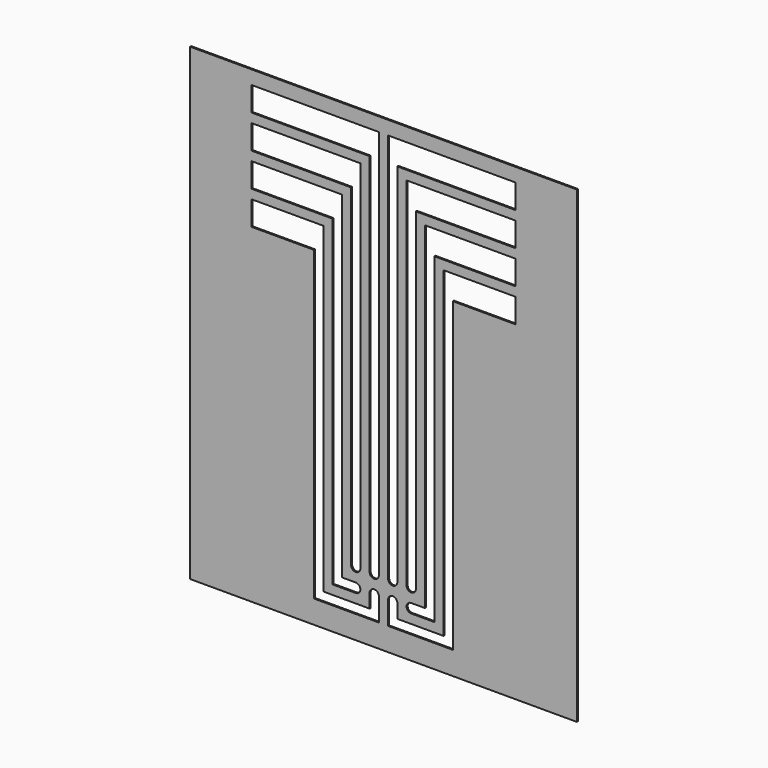
from build123d import *

# Parameters (mm, degrees)
F0_W     = 14.647059
F0_H     = 35.500497
F1_DEPTH = 0.1
F2_DEPTH = 0.1


with BuildPart() as f1:
    # F0 (on Front) → F1 (new body)
    with BuildSketch(Plane.XZ):
        with Locations((7.323529, 17.750248)):
            Rectangle(F0_W, F0_H)
        with BuildLine():
            ThreePointArc((0.35, 3.5), (0.7, 3.85), (1.05, 3.5))
            Line((1.05, 3.5), (1.05, 2.45))
            Line((1.05, 2.45), (4.55, 2.45))
            Line((4.55, 2.45), (4.55, 25))
            Line((4.55, 25), (4.55, 26.84))
            Line((4.55, 26.84), (10, 26.84))
            Line((10, 26.84), (10, 25))
            Line((10, 25), (5.25, 25))
            Line((5.25, 25), (5.25, 2.45))
            Line((5.25, 2.45), (5.25, 1.75))
            Line((5.25, 1.75), (0.35, 1.75))
            Line((0.35, 1.75), (0.35, 2.45))
            Line((0.35, 2.45), (0.35, 3.5))
        make_face(mode=Mode.SUBTRACT)
        with BuildLine():
            ThreePointArc((2.1, 3.15), (1.75, 3.5), (2.1, 3.85))
            Line((2.1, 3.85), (3.15, 3.85))
            Line((3.15, 3.85), (3.15, 27.54))
            Line((3.15, 27.54), (3.15, 29.38))
            Line((3.15, 29.38), (10, 29.38))
            Line((10, 29.38), (10, 27.54))
            Line((10, 27.54), (3.85, 27.54))
            Line((3.85, 27.54), (3.85, 3.85))
            Line((3.85, 3.85), (3.85, 3.15))
            Line((3.85, 3.15), (2.1, 3.15))
        make_face(mode=Mode.SUBTRACT)
        with BuildLine():
            ThreePointArc((1.05, 4.9), (0.7, 4.55), (0.35, 4.9))
            Line((0.35, 4.9), (0.35, 32.62))
            Line((0.35, 32.62), (0.35, 34.46))
            Line((0.35, 34.46), (10, 34.46))
            Line((10, 34.46), (10, 32.62))
            Line((10, 32.62), (1.05, 32.62))
            Line((1.05, 32.62), (1.05, 4.9))
        make_face(mode=Mode.SUBTRACT)
        with BuildLine():
            ThreePointArc((2.45, 4.9), (2.1, 4.55), (1.75, 4.9))
            Line((1.75, 4.9), (1.75, 30.08))
            Line((1.75, 30.08), (1.75, 31.92))
            Line((1.75, 31.92), (10, 31.92))
            Line((10, 31.92), (10, 30.08))
            Line((10, 30.08), (2.45, 30.08))
            Line((2.45, 30.08), (2.45, 4.9))
        make_face(mode=Mode.SUBTRACT)
        with Locations((-7.323529, 17.750248)):
            Rectangle(F0_W, F0_H)
        with BuildLine():
            Line((-1.05, 2.45), (-1.05, 3.5))
            ThreePointArc((-1.05, 3.5), (-0.7, 3.85), (-0.35, 3.5))
            Line((-0.35, 3.5), (-0.35, 2.45))
            Line((-0.35, 2.45), (-0.35, 1.75))
            Line((-0.35, 1.75), (-5.25, 1.75))
            Line((-5.25, 1.75), (-5.25, 2.45))
            Line((-5.25, 2.45), (-5.25, 25))
            Line((-5.25, 25), (-10, 25))
            Line((-10, 25), (-10, 26.84))
            Line((-10, 26.84), (-4.55, 26.84))
            Line((-4.55, 26.84), (-4.55, 25))
            Line((-4.55, 25), (-4.55, 2.45))
            Line((-4.55, 2.45), (-1.05, 2.45))
        make_face(mode=Mode.SUBTRACT)
        with BuildLine():
            Line((-3.15, 3.85), (-2.1, 3.85))
            ThreePointArc((-2.1, 3.85), (-1.75, 3.5), (-2.1, 3.15))
            Line((-2.1, 3.15), (-3.85, 3.15))
            Line((-3.85, 3.15), (-3.85, 3.85))
            Line((-3.85, 3.85), (-3.85, 27.54))
            Line((-3.85, 27.54), (-10, 27.54))
            Line((-10, 27.54), (-10, 29.38))
            Line((-10, 29.38), (-3.15, 29.38))
            Line((-3.15, 29.38), (-3.15, 27.54))
            Line((-3.15, 27.54), (-3.15, 3.85))
        make_face(mode=Mode.SUBTRACT)
        with BuildLine():
            Line((-1.75, 30.08), (-1.75, 4.9))
            ThreePointArc((-1.75, 4.9), (-2.1, 4.55), (-2.45, 4.9))
            Line((-2.45, 4.9), (-2.45, 30.08))
            Line((-2.45, 30.08), (-10, 30.08))
            Line((-10, 30.08), (-10, 31.92))
            Line((-10, 31.92), (-1.75, 31.92))
            Line((-1.75, 31.92), (-1.75, 30.08))
        make_face(mode=Mode.SUBTRACT)
        with BuildLine():
            Line((-0.35, 32.62), (-0.35, 4.9))
            ThreePointArc((-0.35, 4.9), (-0.7, 4.55), (-1.05, 4.9))
            Line((-1.05, 4.9), (-1.05, 32.62))
            Line((-1.05, 32.62), (-10, 32.62))
            Line((-10, 32.62), (-10, 34.46))
            Line((-10, 34.46), (-0.35, 34.46))
            Line((-0.35, 34.46), (-0.35, 32.62))
        make_face(mode=Mode.SUBTRACT)
    extrude(amount=-F1_DEPTH)

    # F0 (on Front) → F2 (cut)
    with BuildSketch(Plane.XZ):
        with Locations((7.323529, 17.750248)):
            Rectangle(F0_W, F0_H)
        with BuildLine():
            ThreePointArc((0.35, 3.5), (0.7, 3.85), (1.05, 3.5))
            Line((1.05, 3.5), (1.05, 2.45))
            Line((1.05, 2.45), (4.55, 2.45))
            Line((4.55, 2.45), (4.55, 25))
            Line((4.55, 25), (4.55, 26.84))
            Line((4.55, 26.84), (10, 26.84))
            Line((10, 26.84), (10, 25))
            Line((10, 25), (5.25, 25))
            Line((5.25, 25), (5.25, 2.45))
            Line((5.25, 2.45), (5.25, 1.75))
            Line((5.25, 1.75), (0.35, 1.75))
            Line((0.35, 1.75), (0.35, 2.45))
            Line((0.35, 2.45), (0.35, 3.5))
        make_face(mode=Mode.SUBTRACT)
        with BuildLine():
            ThreePointArc((2.1, 3.15), (1.75, 3.5), (2.1, 3.85))
            Line((2.1, 3.85), (3.15, 3.85))
            Line((3.15, 3.85), (3.15, 27.54))
            Line((3.15, 27.54), (3.15, 29.38))
            Line((3.15, 29.38), (10, 29.38))
            Line((10, 29.38), (10, 27.54))
            Line((10, 27.54), (3.85, 27.54))
            Line((3.85, 27.54), (3.85, 3.85))
            Line((3.85, 3.85), (3.85, 3.15))
            Line((3.85, 3.15), (2.1, 3.15))
        make_face(mode=Mode.SUBTRACT)
        with BuildLine():
            ThreePointArc((1.05, 4.9), (0.7, 4.55), (0.35, 4.9))
            Line((0.35, 4.9), (0.35, 32.62))
            Line((0.35, 32.62), (0.35, 34.46))
            Line((0.35, 34.46), (10, 34.46))
            Line((10, 34.46), (10, 32.62))
            Line((10, 32.62), (1.05, 32.62))
            Line((1.05, 32.62), (1.05, 4.9))
        make_face(mode=Mode.SUBTRACT)
        with BuildLine():
            ThreePointArc((2.45, 4.9), (2.1, 4.55), (1.75, 4.9))
            Line((1.75, 4.9), (1.75, 30.08))
            Line((1.75, 30.08), (1.75, 31.92))
            Line((1.75, 31.92), (10, 31.92))
            Line((10, 31.92), (10, 30.08))
            Line((10, 30.08), (2.45, 30.08))
            Line((2.45, 30.08), (2.45, 4.9))
        make_face(mode=Mode.SUBTRACT)
        with Locations((-7.323529, 17.750248)):
            Rectangle(F0_W, F0_H)
        with BuildLine():
            Line((-1.05, 2.45), (-1.05, 3.5))
            ThreePointArc((-1.05, 3.5), (-0.7, 3.85), (-0.35, 3.5))
            Line((-0.35, 3.5), (-0.35, 2.45))
            Line((-0.35, 2.45), (-0.35, 1.75))
            Line((-0.35, 1.75), (-5.25, 1.75))
            Line((-5.25, 1.75), (-5.25, 2.45))
            Line((-5.25, 2.45), (-5.25, 25))
            Line((-5.25, 25), (-10, 25))
            Line((-10, 25), (-10, 26.84))
            Line((-10, 26.84), (-4.55, 26.84))
            Line((-4.55, 26.84), (-4.55, 25))
            Line((-4.55, 25), (-4.55, 2.45))
            Line((-4.55, 2.45), (-1.05, 2.45))
        make_face(mode=Mode.SUBTRACT)
        with BuildLine():
            Line((-3.15, 3.85), (-2.1, 3.85))
            ThreePointArc((-2.1, 3.85), (-1.75, 3.5), (-2.1, 3.15))
            Line((-2.1, 3.15), (-3.85, 3.15))
            Line((-3.85, 3.15), (-3.85, 3.85))
            Line((-3.85, 3.85), (-3.85, 27.54))
            Line((-3.85, 27.54), (-10, 27.54))
            Line((-10, 27.54), (-10, 29.38))
            Line((-10, 29.38), (-3.15, 29.38))
            Line((-3.15, 29.38), (-3.15, 27.54))
            Line((-3.15, 27.54), (-3.15, 3.85))
        make_face(mode=Mode.SUBTRACT)
        with BuildLine():
            Line((-1.75, 30.08), (-1.75, 4.9))
            ThreePointArc((-1.75, 4.9), (-2.1, 4.55), (-2.45, 4.9))
            Line((-2.45, 4.9), (-2.45, 30.08))
            Line((-2.45, 30.08), (-10, 30.08))
            Line((-10, 30.08), (-10, 31.92))
            Line((-10, 31.92), (-1.75, 31.92))
            Line((-1.75, 31.92), (-1.75, 30.08))
        make_face(mode=Mode.SUBTRACT)
        with BuildLine():
            Line((-0.35, 32.62), (-0.35, 4.9))
            ThreePointArc((-0.35, 4.9), (-0.7, 4.55), (-1.05, 4.9))
            Line((-1.05, 4.9), (-1.05, 32.62))
            Line((-1.05, 32.62), (-10, 32.62))
            Line((-10, 32.62), (-10, 34.46))
            Line((-10, 34.46), (-0.35, 34.46))
            Line((-0.35, 34.46), (-0.35, 32.62))
        make_face(mode=Mode.SUBTRACT)
    extrude(amount=F2_DEPTH, mode=Mode.SUBTRACT)


solid = f1.part
